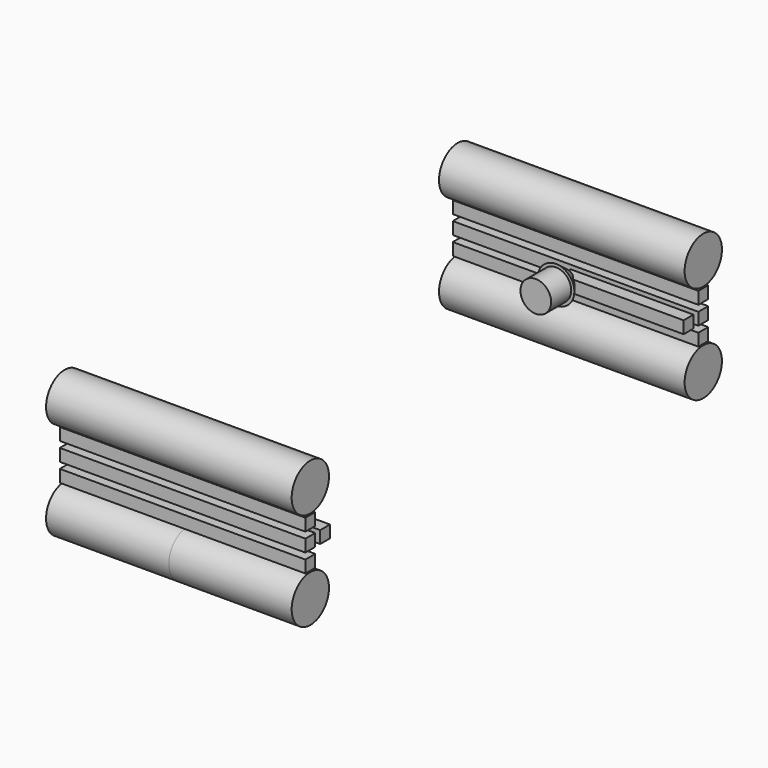
from build123d import *

# Parameters (mm, degrees)
F0_W     = 100
F0_H     = 100
F0_R     = 190
F1_DEPTH = 1000
F2_W     = 100
F2_H     = 100
F3_DEPTH = 1000


with BuildPart() as f1:
    # F0 (on Right) → F1 (new body, symmetric)
    with BuildSketch(Plane.YZ):
        with Locations((-2000, 900)):
            Rectangle(F0_W, F0_H)
        with Locations((-2000, 750)):
            Rectangle(F0_W, F0_H)
        with Locations((-2000, 1050)):
            Rectangle(F0_W, F0_H)
        with Locations((-2000, 500)):
            Circle(F0_R)
        with Locations((-2000, 1300)):
            Circle(F0_R)
    extrude(amount=F1_DEPTH, both=True)


with BuildPart() as f3:
    # F2 (on Right) → F3 (new body, through all)
    with BuildSketch(Plane.YZ):
        with Locations((-1850, 900)):
            Rectangle(F2_W, F2_H)
    extrude(amount=F3_DEPTH)

    # F4 (on Right) → F5 (revolve)
    with BuildSketch(Plane.YZ):
        Polygon((-1850, 975), (-1850, 900), (-1545, 900), (-1545, 1025), (-1750, 1025), (-1750, 1050), align=None)
    revolve(axis=Axis((0, -1850, 900), (0, 1, 0)))


with BuildPart() as f6_1:
    # F6: instance of F3
    add(f3.part.mirror(Plane.XZ))


with BuildPart() as f6_2:
    # F6: instance of F1
    add(f1.part.mirror(Plane.XZ))


solid = Compound([f1.part, f3.part, f6_1.part, f6_2.part])
